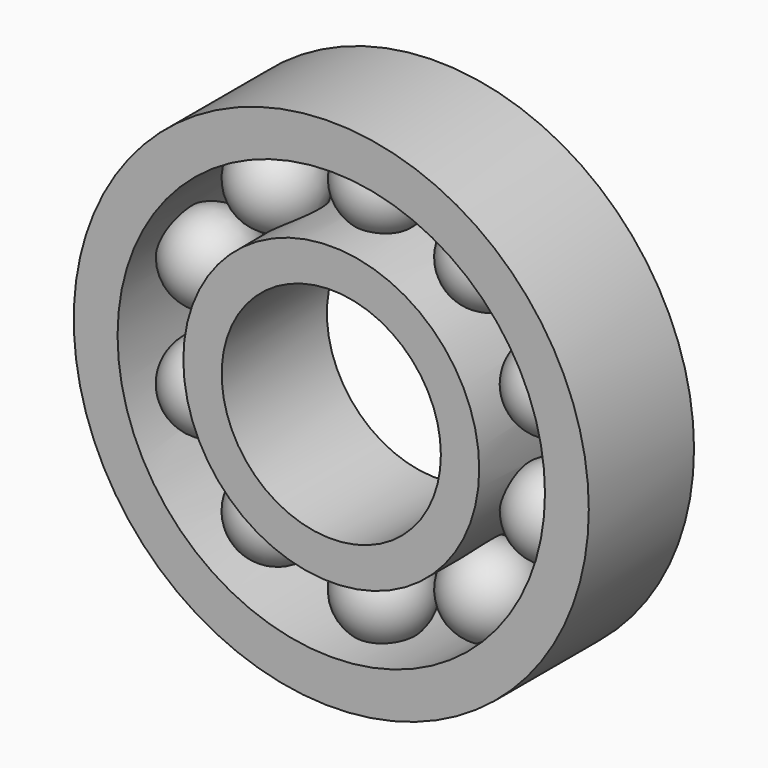
from build123d import *

# Parameters (mm, degrees)
F0_R     = 23.5
F0_R_2   = 19.5
F1_DEPTH = 12
F0_R_3   = 13.5
F0_R_4   = 10
F6_COUNT = 10


with BuildPart() as f1:
    # F0 (on Front) → F1 (new body)
    with BuildSketch(Plane.XZ):
        Circle(F0_R)
        Circle(F0_R_2, mode=Mode.SUBTRACT)
        Circle(F0_R)
        Circle(F0_R_2, mode=Mode.SUBTRACT)
    extrude(amount=F1_DEPTH)



with BuildPart() as f1b:
    # F0 (on Front) → F1, piece 2 (new body)
    with BuildSketch(Plane.XZ):
        Circle(F0_R_3)
        Circle(F0_R_4, mode=Mode.SUBTRACT)
    extrude(amount=F1_DEPTH)


with BuildPart() as f1_1:
    add(f1.part)

    add(f1b.part)  # F4 merges F1b
    # F3 (on offset) → F4 (revolve)
    with BuildSketch(Plane.XZ.offset(6)):
        with BuildLine():
            Line((0, 20.5), (0, 12.5))
            ThreePointArc((0, 12.5), (4, 16.5), (0, 20.5))
        make_face()
    revolve(axis=Axis((0, -6, 16.5), (0, 0, -1)))

    # F6: F1 ×10 about axis
    f6_axis = Axis((0, -38.7040190399, 0), (0, -1, 0))


with BuildPart() as f1_2:
    add(f1_1.part)
    for i in range(1, F6_COUNT):
        add(f1_1.part.rotate(f6_axis, i * 360 / F6_COUNT))


solid = f1_2.part
